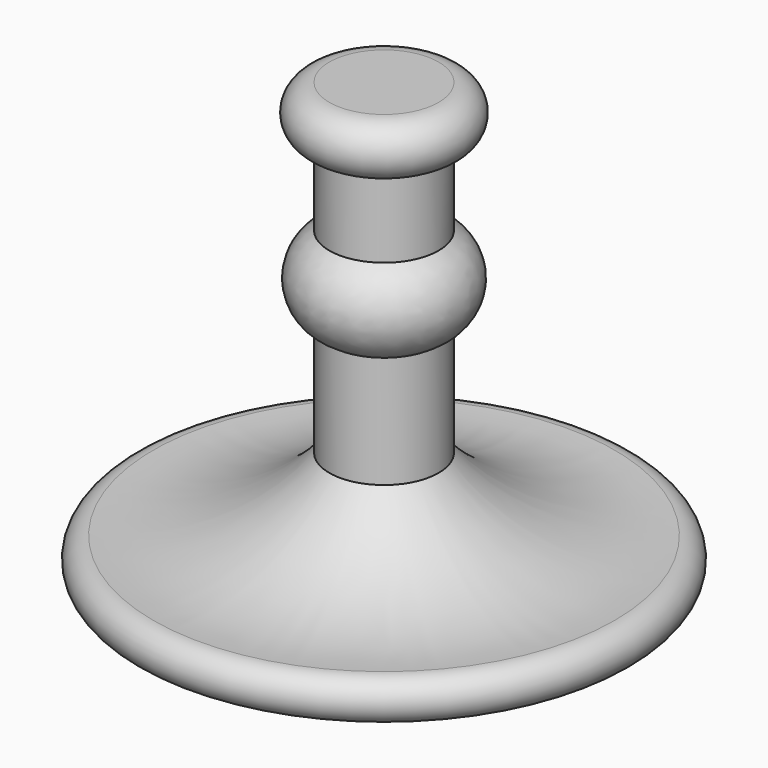
from build123d import *


with BuildPart() as f1:
    # F0 (on Front) → F1 (revolve)
    with BuildSketch(Plane.XZ):
        with BuildLine():
            Line((0, 74.917264), (0, 0))
            Line((0, 0), (39.240602, 0))
            ThreePointArc((39.240602, 0), (42.776984, 3.536382), (39.240602, 7.072763))
            ThreePointArc((39.240602, 7.072763), (22.703598, 9.45647), (9.296888, 19.427162))
            Line((9.296888, 19.427162), (9.296888, 38.482253))
            ThreePointArc((9.296888, 38.482253), (13.546492, 45.601735), (9.296888, 52.721217))
            Line((9.296888, 52.721217), (9.296888, 65.913208))
            ThreePointArc((9.296888, 65.913208), (13.798916, 70.415236), (9.296888, 74.917264))
            Line((9.296888, 74.917264), (0, 74.917264))
        make_face()
    revolve(axis=Axis((0, 0, 37.458632), (0, 0, 1)))


solid = f1.part
